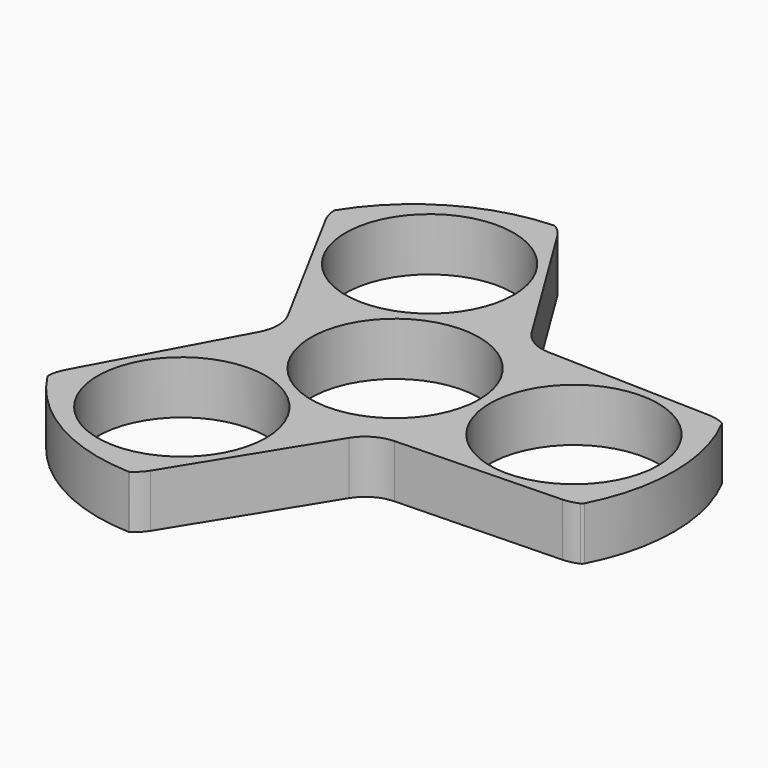
from build123d import *

# Parameters (mm, degrees)
F0_R     = 11.1
F1_DEPTH = 7


with BuildPart() as f1:
    # F0 (on Top) → F1 (new body)
    with BuildSketch(Plane.XY):
        with BuildLine():
            Line((10.074664, -12.705239), (31.75576, -12.070901))
            ThreePointArc((31.75576, -12.070901), (32.771356, -11.936183), (33.738175, -11.597295))
            ThreePointArc((33.738175, -11.597295), (33.917325, -11.474048), (34.047629, -11.299963))
            ThreePointArc((34.047629, -11.299963), (36.811106, 0.073562), (33.979335, 11.430276))
            ThreePointArc((33.979335, 11.430276), (33.937596, 11.486441), (33.880845, 11.52738))
            ThreePointArc((33.880845, 11.52738), (32.848475, 11.91711), (31.75576, 12.070901))
            Line((31.75576, 12.070901), (10.074664, 12.705239))
            ThreePointArc((10.074664, 12.705239), (7.72089, 13.372973), (5.965728, 15.077534))
            Line((5.965728, 15.077534), (-5.424174, 33.536745))
            ThreePointArc((-5.424174, 33.536745), (-6.04864, 34.348919), (-6.825536, 35.016764))
            ThreePointArc((-6.825536, 35.016764), (-7.021846, 35.110289), (-7.237759, 35.136093))
            ThreePointArc((-7.237759, 35.136093), (-18.46926, 31.842572), (-26.888577, 23.71183))
            ThreePointArc((-26.888577, 23.71183), (-26.916348, 23.6476), (-26.923426, 23.577983))
            ThreePointArc((-26.923426, 23.577983), (-26.744758, 22.489059), (-26.331587, 21.465845))
            Line((-26.331587, 21.465845), (-16.040392, 2.372295))
            ThreePointArc((-16.040392, 2.372295), (-15.441779, 0), (-16.040392, -2.372295))
            Line((-16.040392, -2.372295), (-26.331587, -21.465845))
            ThreePointArc((-26.331587, -21.465845), (-26.722716, -22.412736), (-26.91264, -23.41947))
            ThreePointArc((-26.91264, -23.41947), (-26.89548, -23.636242), (-26.80987, -23.83613))
            ThreePointArc((-26.80987, -23.83613), (-18.341846, -31.916134), (-7.090758, -35.142106))
            ThreePointArc((-7.090758, -35.142106), (-7.021248, -35.134041), (-6.957419, -35.105362))
            ThreePointArc((-6.957419, -35.105362), (-6.103717, -34.406169), (-5.424174, -33.536745))
            Line((-5.424174, -33.536745), (5.965728, -15.077534))
            ThreePointArc((5.965728, -15.077534), (7.72089, -13.372973), (10.074664, -12.705239))
        make_face()
        with Locations((-11.8, -20.4382)):
            Circle(F0_R, mode=Mode.SUBTRACT)
        Circle(F0_R, mode=Mode.SUBTRACT)
        with Locations((-11.8, 20.4382)):
            Circle(F0_R, mode=Mode.SUBTRACT)
        with Locations((23.6, 0)):
            Circle(F0_R, mode=Mode.SUBTRACT)
    extrude(amount=F1_DEPTH)


solid = f1.part
